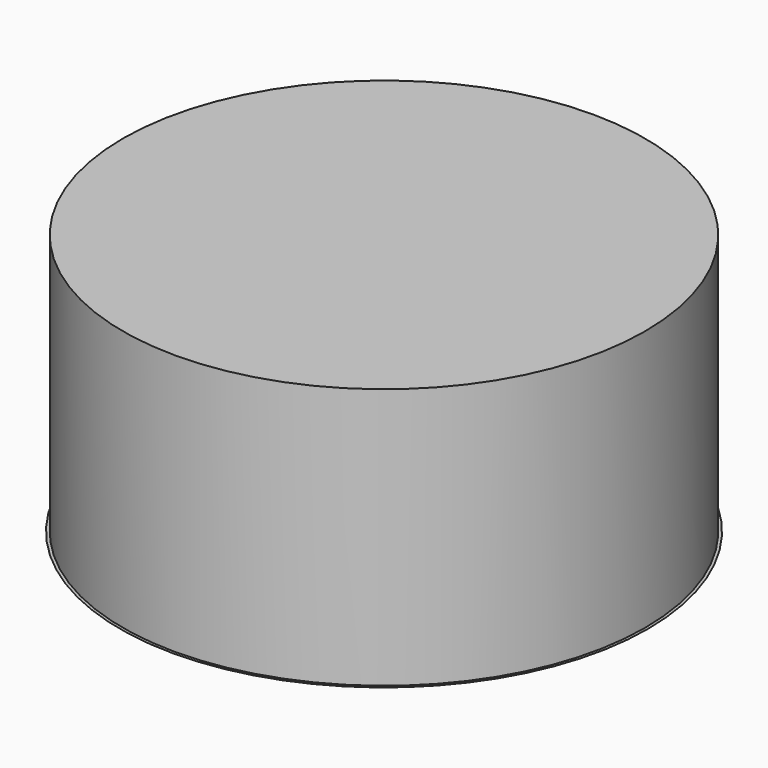
from build123d import *

# Parameters (mm, degrees)
F0_R     = 10
F1_DEPTH = 10


with BuildPart() as f1:
    # F0 (on Top) → F1 (new body)
    with BuildSketch(Plane.XY):
        Circle(F0_R)
    extrude(amount=F1_DEPTH)

    # F2 (on Right) → F3 (revolve)
    with BuildSketch(Plane.YZ):
        with BuildLine():
            ThreePointArc((0, -1.755432), (5.131421, -1.313317), (10.111597, 0))
            Line((10.111597, 0), (0, 0))
            Line((0, 0), (0, -1.755432))
        make_face()
    revolve(axis=Axis((0, 0, -0.877716), (0, 0, 1)))


solid = f1.part
